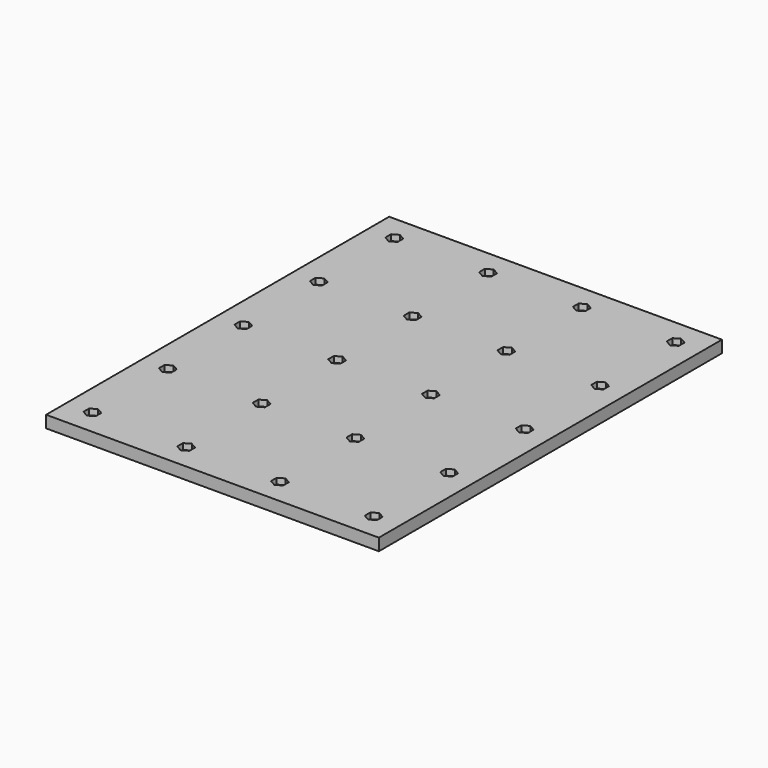
from build123d import *

# Parameters (mm, degrees)
SKETCH_W                     = 194
SKETCH_H                     = 250
PAD_DEPTH                    = 7
POCKET_DEPTH                 = 3.5
SKETCH002_R                  = 2.25
HOLE_DEPTH                   = 640.041283
POCKET_LINEARPATTERN_2_DEPTH = 3.5
SKETCH002_LINEARPATTERN_2_R  = 2.25
HOLE_LINEARPATTERN_2_DEPTH   = 640.041283
POCKET_LINEARPATTERN_3_DEPTH = 3.5
SKETCH002_LINEARPATTERN_3_R  = 2.25
HOLE_LINEARPATTERN_3_DEPTH   = 640.041283
POCKET_LINEARPATTERN_4_DEPTH = 3.5
SKETCH002_LINEARPATTERN_4_R  = 2.25
HOLE_LINEARPATTERN_4_DEPTH   = 640.041283
LINEARPATTERN001_COUNT       = 5
LINEARPATTERN001_PITCH       = 55


with BuildPart() as part:
    # Sketch → Pad (new body)
    with BuildSketch(Plane.XY):
        with Locations((97, 125)):
            Rectangle(SKETCH_W, SKETCH_H)
    extrude(amount=-PAD_DEPTH)

    # Sketch001 → Pocket (cut)
    with BuildSketch(Plane.XY):
        Polygon((15, 10.900813), (18.55, 12.950407), (18.55, 17.049593), (15, 19.099187), (11.45, 17.049593), (11.45, 12.950407), align=None)
    pocket = extrude(amount=-POCKET_DEPTH, mode=Mode.SUBTRACT)

    # Sketch002 → Hole (cut, through all)
    with BuildSketch(Plane.XY):
        with Locations((15, 15)):
            Circle(SKETCH002_R)
    hole = extrude(amount=-HOLE_DEPTH, mode=Mode.SUBTRACT)

    # Sketch001 LinearPattern 2 → Pocket LinearPattern 2 (cut)
    with BuildSketch(Plane(origin=(54.666667, 0, 0), x_dir=(1, 0, 0), z_dir=(0, 0, 1))):
        Polygon((15, 10.900813), (18.55, 12.950407), (18.55, 17.049593), (15, 19.099187), (11.45, 17.049593), (11.45, 12.950407), align=None)
    pocket_linearpattern_2 = extrude(amount=-POCKET_LINEARPATTERN_2_DEPTH, mode=Mode.SUBTRACT)

    # Sketch002 LinearPattern 2 → Hole LinearPattern 2 (cut, through all)
    with BuildSketch(Plane(origin=(54.666667, 0, 0), x_dir=(1, 0, 0), z_dir=(0, 0, 1))):
        with Locations((15, 15)):
            Circle(SKETCH002_LINEARPATTERN_2_R)
    hole_linearpattern_2 = extrude(amount=-HOLE_LINEARPATTERN_2_DEPTH, mode=Mode.SUBTRACT)

    # Sketch001 LinearPattern 3 → Pocket LinearPattern 3 (cut)
    with BuildSketch(Plane(origin=(109.333333, 0, 0), x_dir=(1, 0, 0), z_dir=(0, 0, 1))):
        Polygon((15, 10.900813), (18.55, 12.950407), (18.55, 17.049593), (15, 19.099187), (11.45, 17.049593), (11.45, 12.950407), align=None)
    pocket_linearpattern_3 = extrude(amount=-POCKET_LINEARPATTERN_3_DEPTH, mode=Mode.SUBTRACT)

    # Sketch002 LinearPattern 3 → Hole LinearPattern 3 (cut, through all)
    with BuildSketch(Plane(origin=(109.333333, 0, 0), x_dir=(1, 0, 0), z_dir=(0, 0, 1))):
        with Locations((15, 15)):
            Circle(SKETCH002_LINEARPATTERN_3_R)
    hole_linearpattern_3 = extrude(amount=-HOLE_LINEARPATTERN_3_DEPTH, mode=Mode.SUBTRACT)

    # Sketch001 LinearPattern 4 → Pocket LinearPattern 4 (cut)
    with BuildSketch(Plane(origin=(164, 0, 0), x_dir=(1, 0, 0), z_dir=(0, 0, 1))):
        Polygon((15, 10.900813), (18.55, 12.950407), (18.55, 17.049593), (15, 19.099187), (11.45, 17.049593), (11.45, 12.950407), align=None)
    pocket_linearpattern_4 = extrude(amount=-POCKET_LINEARPATTERN_4_DEPTH, mode=Mode.SUBTRACT)

    # Sketch002 LinearPattern 4 → Hole LinearPattern 4 (cut, through all)
    with BuildSketch(Plane(origin=(164, 0, 0), x_dir=(1, 0, 0), z_dir=(0, 0, 1))):
        with Locations((15, 15)):
            Circle(SKETCH002_LINEARPATTERN_4_R)
    hole_linearpattern_4 = extrude(amount=-HOLE_LINEARPATTERN_4_DEPTH, mode=Mode.SUBTRACT)

    # LinearPattern001: Pocket, Hole, Pocket LinearPattern 2, Hole LinearPattern 2, Pocket LinearPattern 3, Hole LinearPattern 3, Pocket LinearPattern 4, Hole LinearPattern 4 ×5
    with Locations(*[(0, i * LINEARPATTERN001_PITCH, 0) for i in range(1, LINEARPATTERN001_COUNT)]):
        add(pocket, mode=Mode.SUBTRACT)
        add(hole, mode=Mode.SUBTRACT)
        add(pocket_linearpattern_2, mode=Mode.SUBTRACT)
        add(hole_linearpattern_2, mode=Mode.SUBTRACT)
        add(pocket_linearpattern_3, mode=Mode.SUBTRACT)
        add(hole_linearpattern_3, mode=Mode.SUBTRACT)
        add(pocket_linearpattern_4, mode=Mode.SUBTRACT)
        add(hole_linearpattern_4, mode=Mode.SUBTRACT)


solid = part.part
